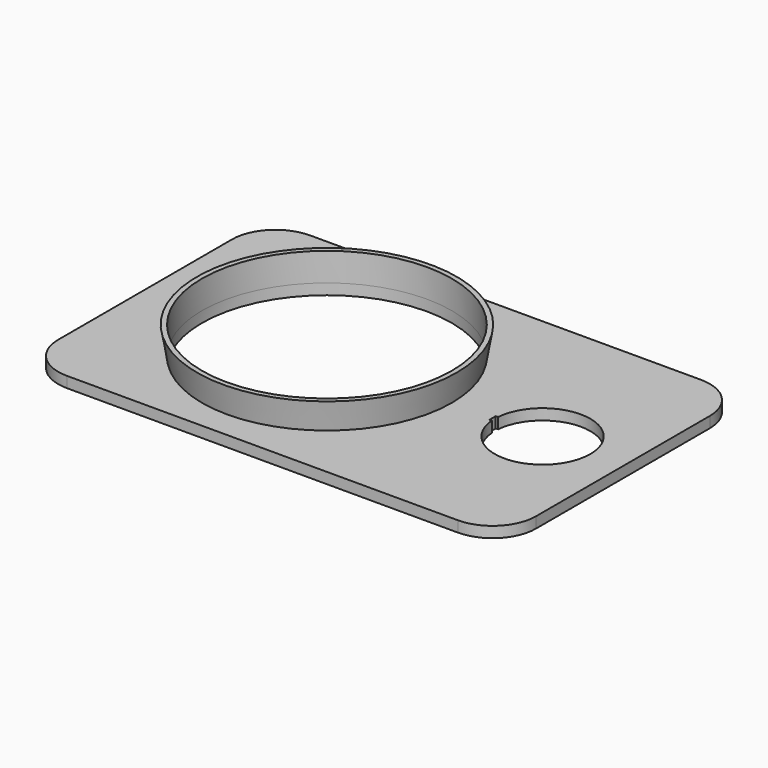
from build123d import *

# Parameters (mm, degrees)
F0_R     = 36.5125
F1_DEPTH = 3.175
F2_R     = 36.5125
F3_DEPTH = 8.255
F3_TAPER = -10
F4_R     = 36.5125
F5_DEPTH = 8.255


with BuildPart() as f1:
    # F0 (on Top) → F1 (new body)
    with BuildSketch(Plane.XY):
        with BuildLine():
            ThreePointArc((69.85, 31.75), (66.1302561211, 40.7302561211), (57.15, 44.45))
            Line((57.15, 44.45), (-57.15, 44.45))
            ThreePointArc((-57.15, 44.45), (-66.1302561211, 40.7302561211), (-69.85, 31.75))
            Line((-69.85, 31.75), (-69.85, -31.75))
            ThreePointArc((-69.85, -31.75), (-66.1302561211, -40.7302561211), (-57.15, -44.45))
            Line((-57.15, -44.45), (57.15, -44.45))
            ThreePointArc((57.15, -44.45), (66.1302561211, -40.7302561211), (69.85, -31.75))
            Line((69.85, -31.75), (69.85, 0))
            Line((69.85, 0), (69.85, 31.75))
        make_face()
        with BuildLine():
            ThreePointArc((32.4318376078, 1.143), (46.9269796241, 13.9582856866), (60.325, 0))
            ThreePointArc((60.325, 0), (46.9269796241, -13.9582856866), (32.4318376078, -1.143))
            Line((32.4318376078, -1.143), (31.75, -1.143))
            Line((31.75, -1.143), (31.75, 1.143))
            Line((31.75, 1.143), (32.4318376078, 1.143))
        make_face(mode=Mode.SUBTRACT)
        with Locations((-16.6927333921, 0)):
            Circle(F0_R, mode=Mode.SUBTRACT)
    extrude(amount=F1_DEPTH)


with BuildPart() as f3:
    # F2 (on face) → F3 (new body)
    with BuildSketch(Plane.XY.offset(3.175)):
        with Locations((-16.6927333921, 0)):
            Circle(F2_R)
    extrude(amount=F3_DEPTH, taper=F3_TAPER)

    # F4 (on face) → F5 (cut)
    with BuildSketch(Plane.XY.offset(11.43)):
        with Locations((-16.6927333921, 0)):
            Circle(F4_R)
    extrude(amount=-F5_DEPTH, mode=Mode.SUBTRACT)


solid = Compound([f1.part, f3.part])
